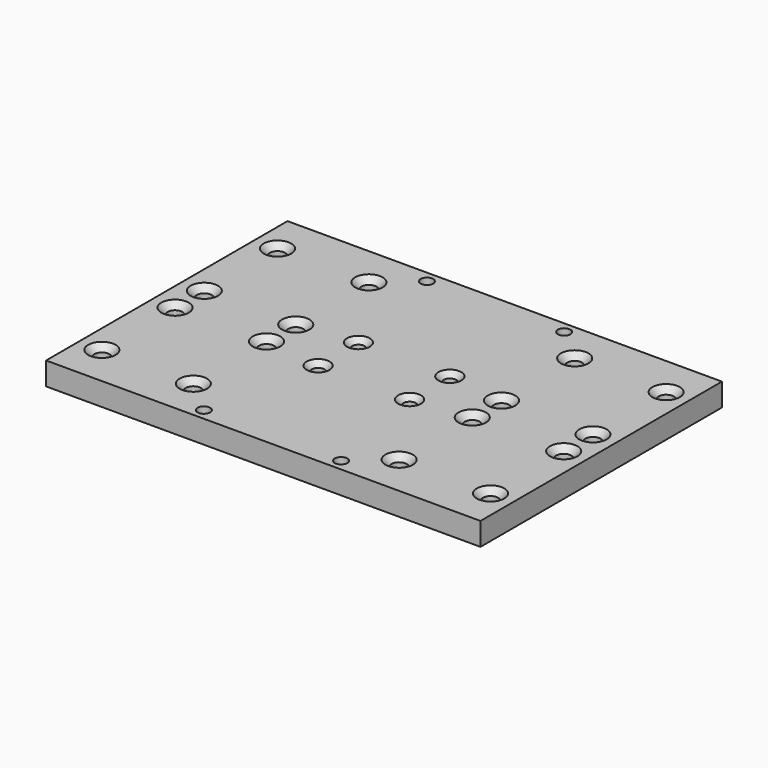
from build123d import *

# Parameters (mm, degrees)
SKETCH_W               = 190
SKETCH_H               = 132
PAD_DEPTH              = 10
SKETCH001_R            = 2.75
HOLE_DEPTH             = 10.001
LINEARPATTERN_COUNT    = 2
LINEARPATTERN_PITCH    = 60
LINEARPATTERN001_COUNT = 2
LINEARPATTERN001_PITCH = 122
HOLE001_D              = 6.6
HOLE001_CSINK_D        = 12
HOLE001_CSINK_ANGLE    = 90
LINEARPATTERN002_COUNT = 2
LINEARPATTERN002_PITCH = 40
LINEARPATTERN003_COUNT = 2
LINEARPATTERN003_PITCH = 170
LINEARPATTERN004_COUNT = 2
LINEARPATTERN004_PITCH = 130
HOLE002_D              = 6.6
HOLE002_CSINK_D        = 12
HOLE002_CSINK_ANGLE    = 90
LINEARPATTERN005_COUNT = 2
LINEARPATTERN005_PITCH = 40
LINEARPATTERN006_COUNT = 2
LINEARPATTERN006_PITCH = 130
LINEARPATTERN007_COUNT = 2
LINEARPATTERN007_PITCH = 170
HOLE003_D              = 6.6
HOLE003_CSINK_D        = 12
HOLE003_CSINK_ANGLE    = 90
LINEARPATTERN008_COUNT = 2
LINEARPATTERN008_PITCH = 40
LINEARPATTERN009_COUNT = 2
LINEARPATTERN009_PITCH = 130
LINEARPATTERN010_COUNT = 2
LINEARPATTERN010_PITCH = 170
SKETCH005_R            = 2.75
HOLE004_DEPTH          = 10.001
HOLE005_D              = 6.6
HOLE005_CSINK_D        = 12
HOLE005_CSINK_ANGLE    = 90
LINEARPATTERN011_COUNT = 2
LINEARPATTERN011_PITCH = 40
LINEARPATTERN012_COUNT = 2
LINEARPATTERN012_PITCH = 130
LINEARPATTERN013_COUNT = 2
LINEARPATTERN013_PITCH = 170
HOLE006_D              = 5.5
HOLE006_CSINK_D        = 10
HOLE006_CSINK_ANGLE    = 90
LINEARPATTERN014_COUNT = 2
LINEARPATTERN014_PITCH = 40
LINEARPATTERN015_COUNT = 2
LINEARPATTERN015_PITCH = 22
HOLE007_D              = 5.5
HOLE007_CSINK_D        = 10
HOLE007_CSINK_ANGLE    = 90


with BuildPart() as part:
    # Sketch → Pad (new body)
    with BuildSketch(Plane.XY):
        with Locations((95, 66)):
            Rectangle(SKETCH_W, SKETCH_H)
    extrude(amount=PAD_DEPTH)

    # Sketch001 (on Face6 of Pad) → Hole (cut, through all)
    with BuildSketch(Plane.XY.offset(10)):
        with Locations((65, 5)):
            Circle(SKETCH001_R)
    hole = extrude(amount=-HOLE_DEPTH, mode=Mode.SUBTRACT)

    # LinearPattern: Hole ×2
    with Locations(*[(i * LINEARPATTERN_PITCH, 0, 0) for i in range(1, LINEARPATTERN_COUNT)]):
        add(hole, mode=Mode.SUBTRACT)

    # LinearPattern001: Hole ×2
    with Locations(*[(0, i * LINEARPATTERN001_PITCH, 0) for i in range(1, LINEARPATTERN001_COUNT)]):
        add(hole, mode=Mode.SUBTRACT)

    # Hole001 (through all)
    with Locations(Plane.XY.offset(10)):
        with Locations((10, 18)):
            hole001 = CounterSinkHole(HOLE001_D / 2, HOLE001_CSINK_D / 2, counter_sink_angle=HOLE001_CSINK_ANGLE)

    # LinearPattern002: Hole001 ×2
    with Locations(*[(i * LINEARPATTERN002_PITCH, 0, 0) for i in range(1, LINEARPATTERN002_COUNT)]):
        add(hole001, mode=Mode.SUBTRACT)

    # LinearPattern003: Hole001 ×2
    with Locations(*[(i * LINEARPATTERN003_PITCH, 0, 0) for i in range(1, LINEARPATTERN003_COUNT)]):
        add(hole001, mode=Mode.SUBTRACT)

    # LinearPattern004: Hole001 ×2
    with Locations(*[(i * LINEARPATTERN004_PITCH, 0, 0) for i in range(1, LINEARPATTERN004_COUNT)]):
        add(hole001, mode=Mode.SUBTRACT)

    # Hole002 (through all)
    with Locations(Plane.XY.offset(10)):
        with Locations((10, 58)):
            hole002 = CounterSinkHole(HOLE002_D / 2, HOLE002_CSINK_D / 2, counter_sink_angle=HOLE002_CSINK_ANGLE)

    # LinearPattern005: Hole002 ×2
    with Locations(*[(i * LINEARPATTERN005_PITCH, 0, 0) for i in range(1, LINEARPATTERN005_COUNT)]):
        add(hole002, mode=Mode.SUBTRACT)

    # LinearPattern006: Hole002 ×2
    with Locations(*[(i * LINEARPATTERN006_PITCH, 0, 0) for i in range(1, LINEARPATTERN006_COUNT)]):
        add(hole002, mode=Mode.SUBTRACT)

    # LinearPattern007: Hole002 ×2
    with Locations(*[(i * LINEARPATTERN007_PITCH, 0, 0) for i in range(1, LINEARPATTERN007_COUNT)]):
        add(hole002, mode=Mode.SUBTRACT)

    # Hole003 (through all)
    with Locations(Plane.XY.offset(10)):
        with Locations((10, 114)):
            hole003 = CounterSinkHole(HOLE003_D / 2, HOLE003_CSINK_D / 2, counter_sink_angle=HOLE003_CSINK_ANGLE)

    # LinearPattern008: Hole003 ×2
    with Locations(*[(i * LINEARPATTERN008_PITCH, 0, 0) for i in range(1, LINEARPATTERN008_COUNT)]):
        add(hole003, mode=Mode.SUBTRACT)

    # LinearPattern009: Hole003 ×2
    with Locations(*[(i * LINEARPATTERN009_PITCH, 0, 0) for i in range(1, LINEARPATTERN009_COUNT)]):
        add(hole003, mode=Mode.SUBTRACT)

    # LinearPattern010: Hole003 ×2
    with Locations(*[(i * LINEARPATTERN010_PITCH, 0, 0) for i in range(1, LINEARPATTERN010_COUNT)]):
        add(hole003, mode=Mode.SUBTRACT)

    # Sketch005 (on Face5 of LinearPattern010) → Hole004 (cut, through all)
    with BuildSketch(Plane.XY.offset(10)):
        with Locations((125, 127)):
            Circle(SKETCH005_R)
    extrude(amount=-HOLE004_DEPTH, mode=Mode.SUBTRACT)

    # Hole005 (through all)
    with Locations(Plane.XY.offset(10)):
        with Locations((10, 74)):
            hole005 = CounterSinkHole(HOLE005_D / 2, HOLE005_CSINK_D / 2, counter_sink_angle=HOLE005_CSINK_ANGLE)

    # LinearPattern011: Hole005 ×2
    with Locations(*[(i * LINEARPATTERN011_PITCH, 0, 0) for i in range(1, LINEARPATTERN011_COUNT)]):
        add(hole005, mode=Mode.SUBTRACT)

    # LinearPattern012: Hole005 ×2
    with Locations(*[(i * LINEARPATTERN012_PITCH, 0, 0) for i in range(1, LINEARPATTERN012_COUNT)]):
        add(hole005, mode=Mode.SUBTRACT)

    # LinearPattern013: Hole005 ×2
    with Locations(*[(i * LINEARPATTERN013_PITCH, 0, 0) for i in range(1, LINEARPATTERN013_COUNT)]):
        add(hole005, mode=Mode.SUBTRACT)

    # Hole006 (through all)
    with Locations(Plane.XY.offset(10)):
        with Locations((75, 55)):
            hole006 = CounterSinkHole(HOLE006_D / 2, HOLE006_CSINK_D / 2, counter_sink_angle=HOLE006_CSINK_ANGLE)

    # LinearPattern014: Hole006 ×2
    with Locations(*[(i * LINEARPATTERN014_PITCH, 0, 0) for i in range(1, LINEARPATTERN014_COUNT)]):
        add(hole006, mode=Mode.SUBTRACT)

    # LinearPattern015: Hole006 ×2
    with Locations(*[(0, i * LINEARPATTERN015_PITCH, 0) for i in range(1, LINEARPATTERN015_COUNT)]):
        add(hole006, mode=Mode.SUBTRACT)

    # Hole007 (through all)
    with Locations(Plane.XY.offset(10)):
        with Locations((115, 77)):
            CounterSinkHole(HOLE007_D / 2, HOLE007_CSINK_D / 2, counter_sink_angle=HOLE007_CSINK_ANGLE)


solid = part.part
